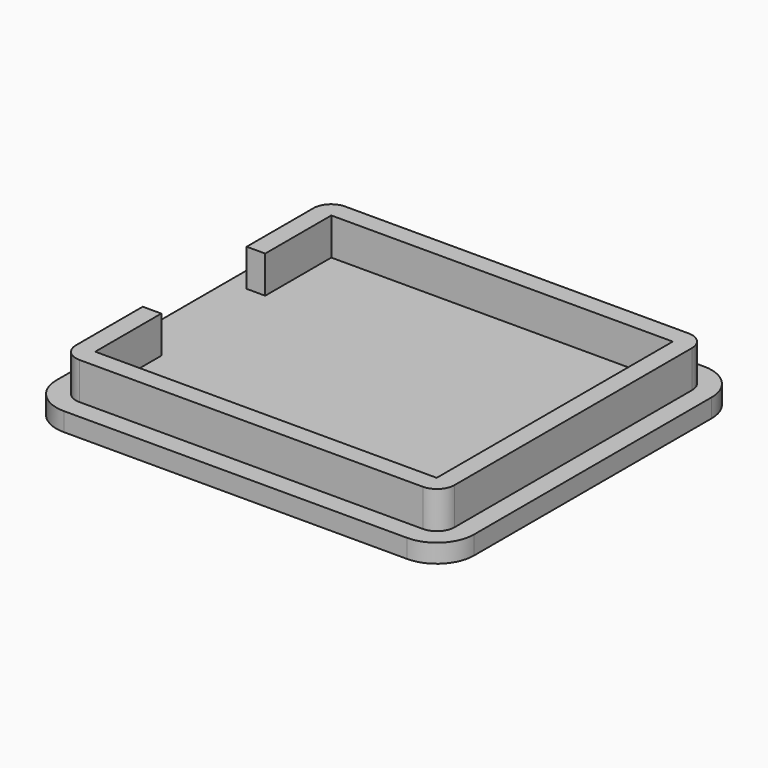
from build123d import *

# Parameters (mm, degrees)
F0_W     = 57.15
F0_H     = 50.8
F1_DEPTH = 2.54
F2_R     = 5.08
F3_W     = 46.736
F3_H     = 40.386
F4_DEPTH = 5.08
F5_W     = 17.78
F5_H     = 5.08
F6_DEPTH = 2.54


with BuildPart() as f1:
    # F0 (on Top) → F1 (new body)
    with BuildSketch(Plane.XY):
        Rectangle(F0_W, F0_H)
    extrude(amount=F1_DEPTH)

    # F2
    f2_edges = [f1.edges().sort_by_distance(p)[0] for p in [
        (-28.575, 25.4, 1.27),
        (28.575, 25.4, 1.27),
        (28.575, -25.4, 1.27),
        (-28.575, -25.4, 1.27),
    ]]
    fillet(f2_edges, radius=F2_R)

    # F3 (on face) → F4 (join)
    with BuildSketch(Plane.XY.offset(2.54)):
        with BuildLine():
            Line((25.908, -20.32), (25.908, 20.32))
            ThreePointArc((25.908, 20.32), (25.201249, 22.026249), (23.495, 22.733))
            Line((23.495, 22.733), (-23.495, 22.733))
            ThreePointArc((-23.495, 22.733), (-25.201249, 22.026249), (-25.908, 20.32))
            Line((-25.908, 20.32), (-25.908, -20.32))
            ThreePointArc((-25.908, -20.32), (-25.201249, -22.026249), (-23.495, -22.733))
            Line((-23.495, -22.733), (23.495, -22.733))
            ThreePointArc((23.495, -22.733), (25.201249, -22.026249), (25.908, -20.32))
        make_face()
        Rectangle(F3_W, F3_H, mode=Mode.SUBTRACT)
    extrude(amount=F4_DEPTH)

    # F5 (on face) → F6 (cut, through all)
    with BuildSketch(Plane(origin=(-25.908, 0, 0), x_dir=(0, -1, 0), z_dir=(-1, 0, 0))):
        with Locations((0, 5.08)):
            Rectangle(F5_W, F5_H)
    extrude(amount=-F6_DEPTH, mode=Mode.SUBTRACT)


solid = f1.part
